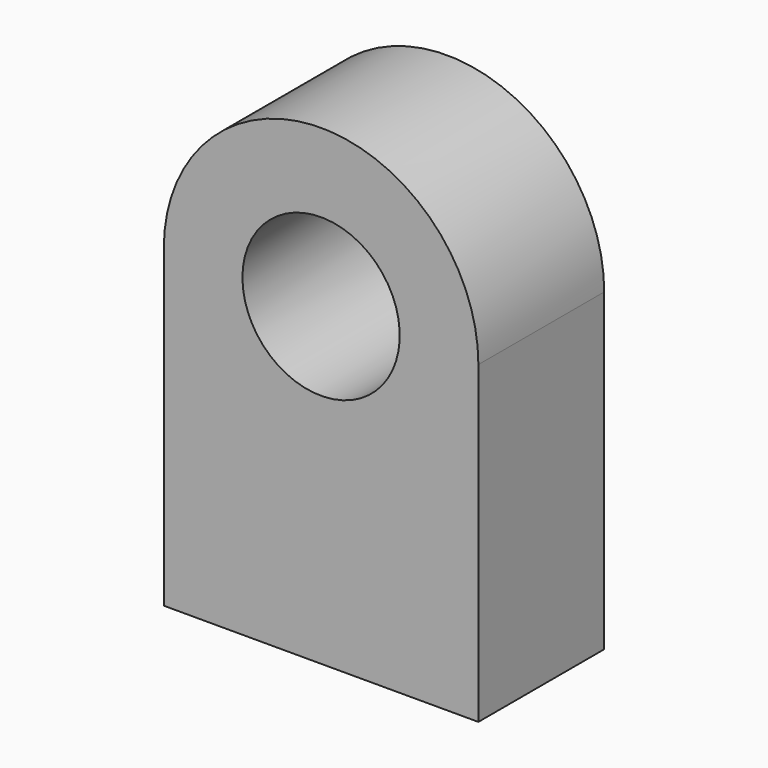
from build123d import *

# Parameters (mm, degrees)
F1_DEPTH = 5


with BuildPart() as f1:
    # F0 (on Front) → F1 (new body)
    with BuildSketch(Plane.XZ):
        with BuildLine():
            Line((5, 0), (2.5, 0))
            ThreePointArc((2.5, 0), (0, -2.5), (-2.5, 0))
            Line((-2.5, 0), (-5, 0))
            Line((-5, 0), (-5, -10))
            Line((-5, -10), (5, -10))
            Line((5, -10), (5, 0))
        make_face()
        with BuildLine():
            ThreePointArc((-2.5, 0), (0, 2.5), (2.5, 0))
            Line((2.5, 0), (5, 0))
            ThreePointArc((5, 0), (0, 5), (-5, 0))
            Line((-5, 0), (-2.5, 0))
        make_face()
    extrude(amount=F1_DEPTH)


solid = f1.part
